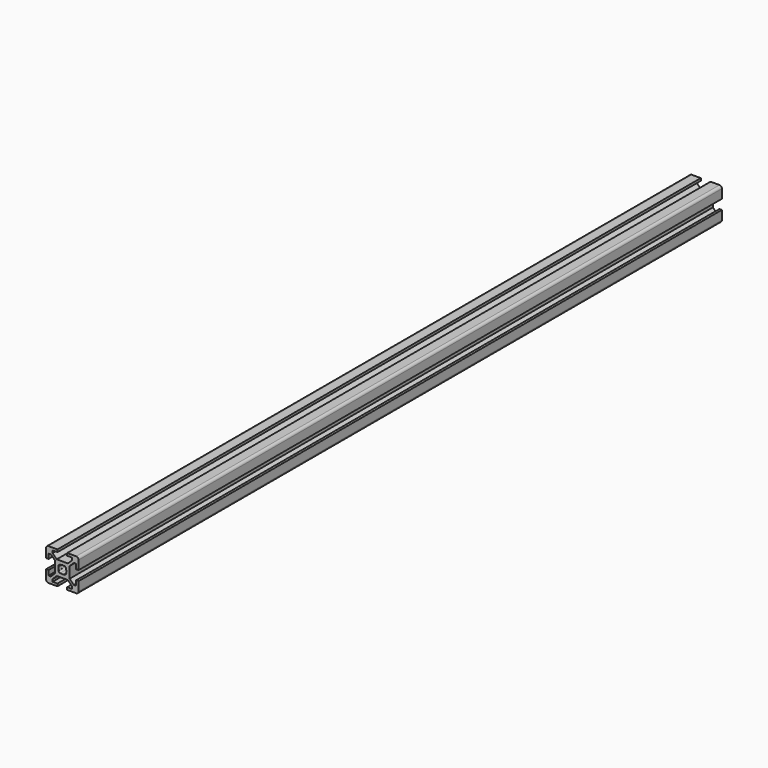
from build123d import *

# Parameters (mm, degrees)
F1_DEPTH = 495


with BuildPart() as f1:
    # F0 (on Front) → F1 (new body)
    with BuildSketch(Plane.XZ):
        with BuildLine():
            Line((3, -10), (8.5, -10))
            ThreePointArc((8.5, -10), (9.5606601718, -9.5606601718), (10, -8.5))
            Line((10, -8.5), (10, -3))
            Line((10, -3), (8.5, -3))
            Line((8.5, -3), (8.5, -6))
            Line((8.5, -6), (7.0606601718, -6))
            Line((7.0606601718, -6), (4.5, -3.4393398282))
            Line((4.5, -3.4393398282), (4.5, 3.4393398282))
            Line((4.5, 3.4393398282), (7.0606601718, 6))
            Line((7.0606601718, 6), (8.5, 6))
            Line((8.5, 6), (8.5, 3))
            Line((8.5, 3), (10, 3))
            Line((10, 3), (10, 8.5))
            ThreePointArc((10, 8.5), (9.5606601718, 9.5606601718), (8.5, 10))
            Line((8.5, 10), (3, 10))
            Line((3, 10), (3, 8.5))
            Line((3, 8.5), (6, 8.5))
            Line((6, 8.5), (6, 7.0606601718))
            Line((6, 7.0606601718), (3.4393398282, 4.5))
            Line((3.4393398282, 4.5), (-3.4393398282, 4.5))
            Line((-3.4393398282, 4.5), (-6, 7.0606601718))
            Line((-6, 7.0606601718), (-6, 8.5))
            Line((-6, 8.5), (-3, 8.5))
            Line((-3, 8.5), (-3, 10))
            Line((-3, 10), (-8.5, 10))
            ThreePointArc((-8.5, 10), (-9.5606601718, 9.5606601718), (-10, 8.5))
            Line((-10, 8.5), (-10, 3))
            Line((-10, 3), (-8.5, 3))
            Line((-8.5, 3), (-8.5, 6))
            Line((-8.5, 6), (-7.0606601718, 6))
            Line((-7.0606601718, 6), (-4.5, 3.4393398282))
            Line((-4.5, 3.4393398282), (-4.5, -3.4393398282))
            Line((-4.5, -3.4393398282), (-7.0606601718, -6))
            Line((-7.0606601718, -6), (-8.5, -6))
            Line((-8.5, -6), (-8.5, -3))
            Line((-8.5, -3), (-10, -3))
            Line((-10, -3), (-10, -8.5))
            ThreePointArc((-10, -8.5), (-9.5606601718, -9.5606601718), (-8.5, -10))
            Line((-8.5, -10), (-3, -10))
            Line((-3, -10), (-3, -8.5))
            Line((-3, -8.5), (-6, -8.5))
            Line((-6, -8.5), (-6, -7.0606601718))
            Line((-6, -7.0606601718), (-3.4393398282, -4.5))
            Line((-3.4393398282, -4.5), (3.4393398282, -4.5))
            Line((3.4393398282, -4.5), (6, -7.0606601718))
            Line((6, -7.0606601718), (6, -8.5))
            Line((6, -8.5), (3, -8.5))
            Line((3, -8.5), (3, -10))
        make_face()
        with BuildLine():
            ThreePointArc((-1.1560121095, 2.2166722813), (0, 2.5), (1.1560121095, 2.2166722813))
            Line((1.1560121095, 2.2166722813), (1.4393398282, 2.5))
            Line((1.4393398282, 2.5), (2.5, 1.4393398282))
            Line((2.5, 1.4393398282), (2.2166722813, 1.1560121095))
            ThreePointArc((2.2166722813, 1.1560121095), (2.5, 0), (2.2166722813, -1.1560121095))
            Line((2.2166722813, -1.1560121095), (2.5, -1.4393398282))
            Line((2.5, -1.4393398282), (1.4393398282, -2.5))
            Line((1.4393398282, -2.5), (1.1560121095, -2.2166722813))
            ThreePointArc((1.1560121095, -2.2166722813), (0, -2.5), (-1.1560121095, -2.2166722813))
            Line((-1.1560121095, -2.2166722813), (-1.4393398282, -2.5))
            Line((-1.4393398282, -2.5), (-2.5, -1.4393398282))
            Line((-2.5, -1.4393398282), (-2.2166722813, -1.1560121095))
            ThreePointArc((-2.2166722813, -1.1560121095), (-2.5, 0), (-2.2166722813, 1.1560121095))
            Line((-2.2166722813, 1.1560121095), (-2.5, 1.4393398282))
            Line((-2.5, 1.4393398282), (-1.4393398282, 2.5))
            Line((-1.4393398282, 2.5), (-1.1560121095, 2.2166722813))
        make_face(mode=Mode.SUBTRACT)
    extrude(amount=F1_DEPTH)


solid = f1.part
